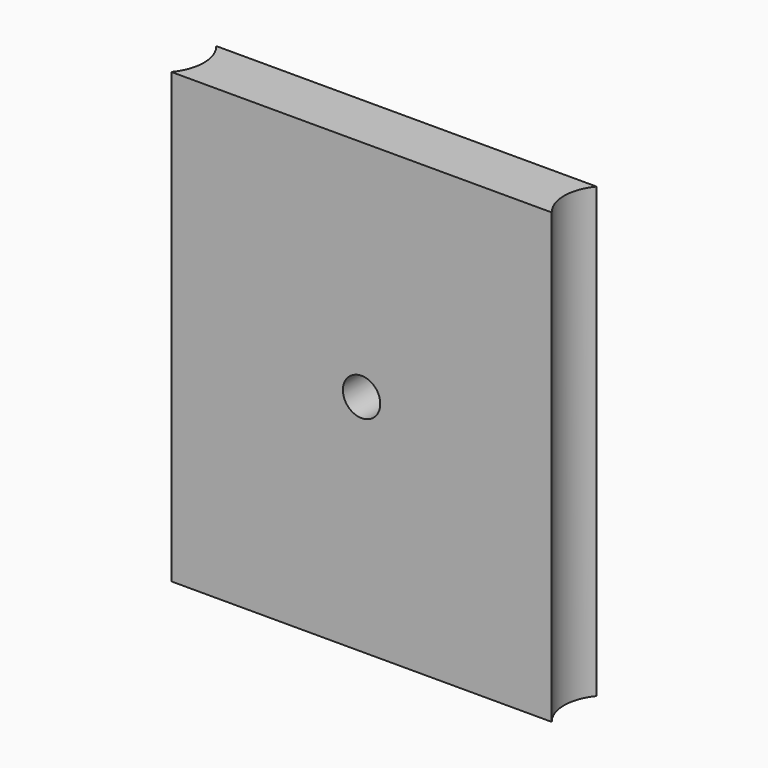
from build123d import *

# Parameters (mm, degrees)
F1_DEPTH = 76.2
F2_R     = 3.175
F3_DEPTH = 9.525


with BuildPart() as f1:
    # F0 (on Top) → F1 (new body)
    with BuildSketch(Plane.XY):
        with BuildLine():
            Line((-32.306159, -4.7625), (32.306159, -4.7625))
            ThreePointArc((32.306159, -4.7625), (30.6, 0), (32.306159, 4.7625))
            Line((32.306159, 4.7625), (-32.306159, 4.7625))
            ThreePointArc((-32.306159, 4.7625), (-30.6, 0), (-32.306159, -4.7625))
        make_face()
    extrude(amount=F1_DEPTH)

    # F2 (on face) → F3 (cut, through all)
    with BuildSketch(Plane(origin=(0, 4.7625, 0), x_dir=(-1, 0, 0), z_dir=(0, 1, 0))):
        with Locations((0, 38.1)):
            Circle(F2_R)
    extrude(amount=-F3_DEPTH, mode=Mode.SUBTRACT)


solid = f1.part
